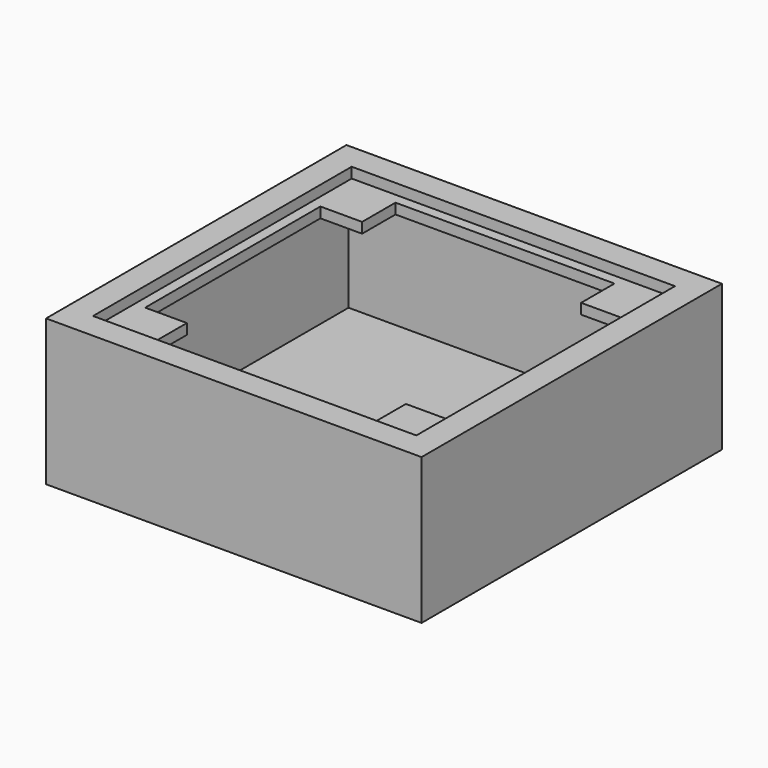
from build123d import *

# Parameters (mm, degrees)
F0_W      = 180
F0_H      = 180
F1_DEPTH  = 70
F2_T      = -5
F3_W      = 170
F3_H      = 170
F4_DEPTH  = 10
F5_W      = 155
F5_H      = 155
F6_DEPTH  = 5
F7_W      = 145
F7_H      = 145
F8_DEPTH  = 25
F9_W      = 20
F9_H      = 20
F10_DEPTH = 5


with BuildPart() as f1:
    # F0 (on Top) → F1 (new body)
    with BuildSketch(Plane.XY):
        Rectangle(F0_W, F0_H)
    extrude(amount=F1_DEPTH)

    # F2
    f2_openings = [f1.faces().sort_by_distance(p)[0] for p in [
        (0, 0, 70),
    ]]
    offset(amount=F2_T, openings=f2_openings)

    # F3 (on face) → F4 (join)
    with BuildSketch(Plane.XY.offset(70)):
        Rectangle(F3_W, F3_H)
    extrude(amount=-F4_DEPTH)

    # F5 (on face) → F6 (cut)
    with BuildSketch(Plane.XY.offset(70)):
        Rectangle(F5_W, F5_H)
        Rectangle(F5_W, F5_H)
    extrude(amount=-F6_DEPTH, mode=Mode.SUBTRACT)

    # F7 (on face) → F8 (cut)
    with BuildSketch(Plane.XY.offset(65)):
        Rectangle(F7_W, F7_H)
    extrude(amount=-F8_DEPTH, mode=Mode.SUBTRACT)

    # F9 (on face) → F10 (join)
    with BuildSketch(Plane.XY.offset(65)):
        with Locations((-62.5, 62.5)):
            Rectangle(F9_W, F9_H)
        with Locations((62.5, 62.5)):
            Rectangle(F9_W, F9_H)
        with Locations((62.5, -62.5)):
            Rectangle(F9_W, F9_H)
        with Locations((-62.5, -62.5)):
            Rectangle(F9_W, F9_H)
    extrude(amount=-F10_DEPTH)


solid = f1.part
